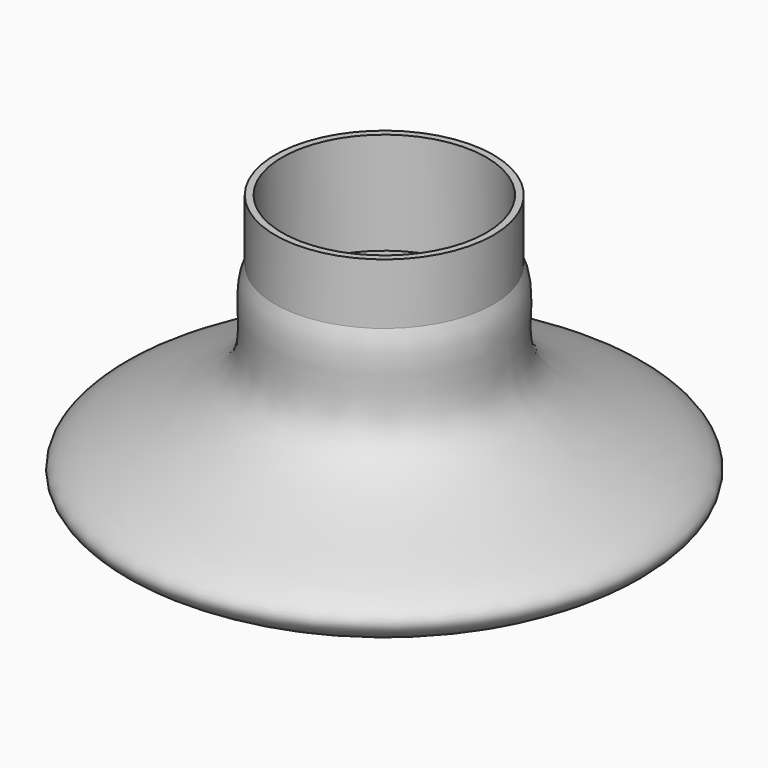
from build123d import *

# Parameters (mm, degrees)
F2_R     = 9.521825
F3_DEPTH = 9.525
F4_R     = 3.171444
F5_DEPTH = 21.971


with BuildPart() as f1:
    # F0 (on Front) → F1 (revolve)
    with BuildSketch(Plane.XZ):
        with BuildLine():
            Line((0, 33.02), (0, 0))
            add(Edge.make_bspline(
                [(10.16, 27.3511130363), (11.5553398253, 24.4607770349), (7.0775196637, 16.6801527294), (36.2337549357, 10.3298059575), (11.6101046519, 4.7742649452), (0, 0)],
                knots=[0.2205712239, 0.2205712239, 0.2205712239, 0.2205712239, 0.4148665878, 0.6648550926, 1, 1, 1, 1], degree=3))
            add(Edge.make_bspline(
                [(0.7323480686, 33.02), (3.6263896015, 32.8108602969), (8.7082667586, 30.3582635354), (10.16, 27.3511130363)],
                knots=[0.0184233075, 0.0184233075, 0.0184233075, 0.0184233075, 0.2205712239, 0.2205712239, 0.2205712239, 0.2205712239], degree=3))
            Line((0.7323480686, 33.02), (0, 33.02))
        make_face()
        with BuildLine():
            add(Edge.make_bspline(
                [(0.7323480686, 33.02), (3.6263896015, 32.8108602969), (8.7082667586, 30.3582635354), (10.16, 27.3511130363)],
                knots=[0.0184233075, 0.0184233075, 0.0184233075, 0.0184233075, 0.2205712239, 0.2205712239, 0.2205712239, 0.2205712239], degree=3))
            Line((10.16, 27.3511130363), (10.16, 33.02))
            Line((10.16, 33.02), (0.7323480686, 33.02))
        make_face()
    revolve(axis=Axis((0, 0, 16.51), (0, 0, 1)))

    # F2 (on face) → F3 (cut)
    with BuildSketch(Plane.XY.offset(33.02)):
        Circle(F2_R)
    extrude(amount=-F3_DEPTH, mode=Mode.SUBTRACT)

    # F4 (on Top) → F5 (cut)
    with BuildSketch(Plane.XY):
        Circle(F4_R)
    extrude(amount=F5_DEPTH, mode=Mode.SUBTRACT)


solid = f1.part
